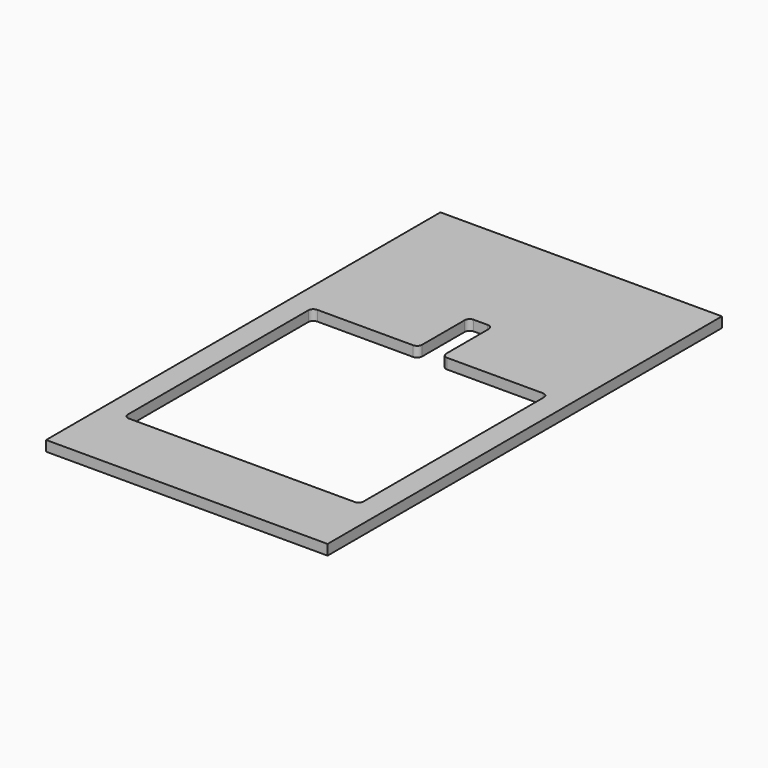
from build123d import *

# Parameters (mm, degrees)
F0_W     = 178.59375
F0_H     = 312.7375
F1_DEPTH = 6.5532
F3_DEPTH = 25.4


with BuildPart() as f1:
    # F0 (on Top) → F1 (new body)
    with BuildSketch(Plane.XY):
        with Locations((89.296875, 156.36875)):
            Rectangle(F0_W, F0_H)
    extrude(amount=F1_DEPTH)

    # F2 (on face) → F3 (cut)
    with BuildSketch(Plane.XY.offset(6.5532)):
        with BuildLine():
            Line((78.501875, 192.9511), (17.7292, 192.9511))
            ThreePointArc((17.7292, 192.9511), (15.484136, 192.021164), (14.5542, 189.7761))
            Line((14.5542, 189.7761), (14.5542, 46.736))
            ThreePointArc((14.5542, 46.736), (15.484136, 44.490936), (17.7292, 43.561))
            Line((17.7292, 43.561), (160.86455, 43.561))
            ThreePointArc((160.86455, 43.561), (163.109614, 44.490936), (164.03955, 46.736))
            Line((164.03955, 46.736), (164.03955, 189.7761))
            ThreePointArc((164.03955, 189.7761), (163.109614, 192.021164), (160.86455, 192.9511))
            Line((160.86455, 192.9511), (100.091875, 192.9511))
            ThreePointArc((100.091875, 192.9511), (97.846811, 193.881036), (96.916875, 196.1261))
            Line((96.916875, 196.1261), (96.916875, 229.9081))
            ThreePointArc((96.916875, 229.9081), (95.986939, 232.153164), (93.741875, 233.0831))
            Line((93.741875, 233.0831), (84.851875, 233.0831))
            ThreePointArc((84.851875, 233.0831), (82.606811, 232.153164), (81.676875, 229.9081))
            Line((81.676875, 229.9081), (81.676875, 196.1261))
            ThreePointArc((81.676875, 196.1261), (80.746939, 193.881036), (78.501875, 192.9511))
        make_face()
    extrude(amount=-F3_DEPTH, mode=Mode.SUBTRACT)


solid = f1.part
